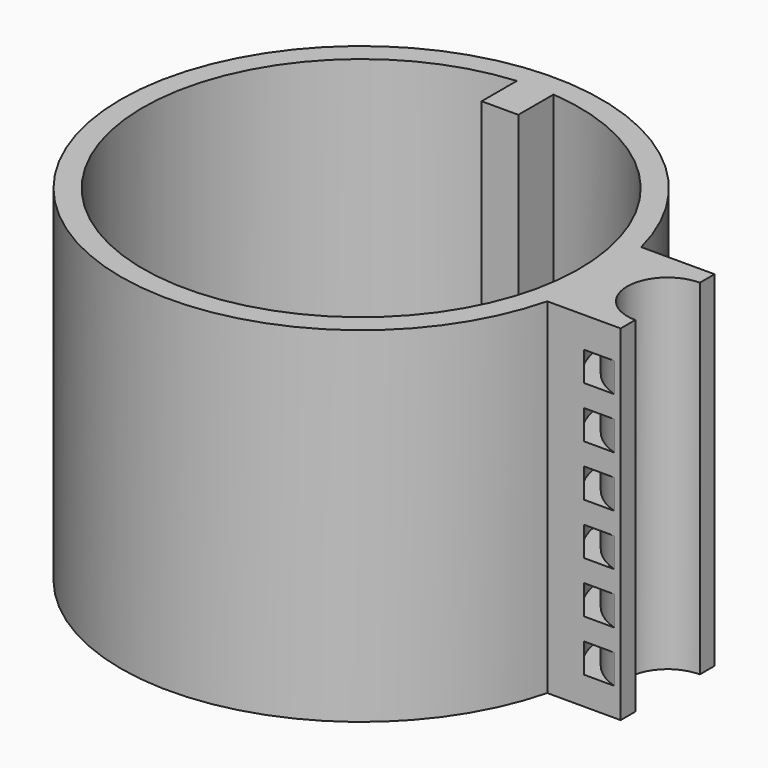
from build123d import *

# Parameters (mm, degrees)
F0_R           = 32.75
F1_DEPTH       = 40
F2_T           = -3
F3_DEPTH       = 7
F5_D           = 4.2
F5_DEPTH       = 15
F5_CBORE_D     = 7.5
F5_CBORE_DEPTH = 5
F5_TIP         = 1.2618073
F7_DEPTH       = 37
F9_DEPTH       = 47
F10_W          = 2
F10_H          = 4


with BuildPart() as f1:
    # F0 (on Top) → F1 (new body)
    with BuildSketch(Plane.XY):
        Circle(F0_R)
    extrude(amount=F1_DEPTH)

    # F2
    f2_openings = [f1.faces().sort_by_distance(p)[0] for p in [
        (0, 0, 40),
    ]]
    offset(amount=F2_T, openings=f2_openings)

    # F3 (add): a face of the model
    f3_faces = [f1.faces().sort_by_distance(p)[0] for p in [
        (0, 0, 0),
    ]]
    extrude(f3_faces, amount=F3_DEPTH)

    # F5
    with Locations(Plane(origin=(0, 0, -7), x_dir=(1, 0, 0), z_dir=(0, 0, -1))):
        with Locations((0, 0)):
            CounterBoreHole(F5_D / 2, F5_CBORE_D / 2, F5_CBORE_DEPTH, depth=F5_DEPTH)
            with Locations((0, 0, -(F5_DEPTH + F5_TIP / 2))):  # 118° drill point
                Cone(0, F5_D / 2, F5_TIP, mode=Mode.SUBTRACT)

    # F6 (on face) → F7 (join)
    with BuildSketch(Plane.XY.offset(3)):
        with BuildLine():
            ThreePointArc((2.5, 29.6447718831), (0, 29.75), (-2.5, 29.6447718831))
            Line((-2.5, 29.6447718831), (-2.5, 23.6447718831))
            Line((-2.5, 23.6447718831), (2.5, 23.6447718831))
            Line((2.5, 23.6447718831), (2.5, 29.6447718831))
        make_face()
    extrude(amount=F7_DEPTH)

    # F8 (on face) → F9 (join)
    with BuildSketch(Plane(origin=(0, 0, -7), x_dir=(1, 0, 0), z_dir=(0, 0, -1))):
        with BuildLine():
            ThreePointArc((32.75, 0), (32.5010218458, -4.0306425017), (31.7578730396, -8))
            Line((31.7578730396, -8), (41.7578730396, -8))
            Line((41.7578730396, -8), (41.7578730396, -5.5))
            ThreePointArc((41.7578730396, -5.5), (36.2578730396, 0), (41.7578730396, 5.5))
            Line((41.7578730396, 5.5), (41.7578730396, 8))
            Line((41.7578730396, 8), (31.7578730396, 8))
            ThreePointArc((31.7578730396, 8), (32.5010218458, 4.0306425017), (32.75, 0))
        make_face()
    extrude(amount=-F9_DEPTH)

    # F10 (on Front) → F11 (revolve, cut)
    with BuildSketch(Plane.XZ):
        with Locations((33.9883454144, -1.1719100263)):
            Rectangle(F10_W, F10_H)
        with Locations((33.9883454144, 5.8280899737)):
            Rectangle(F10_W, F10_H)
        with Locations((33.9883454144, 12.8280899737)):
            Rectangle(F10_W, F10_H)
        with Locations((33.9883454144, 19.8280899737)):
            Rectangle(F10_W, F10_H)
        with Locations((33.9883454144, 26.8280899737)):
            Rectangle(F10_W, F10_H)
        with Locations((33.9883454144, 33.8280899737)):
            Rectangle(F10_W, F10_H)
    revolve(axis=Axis((43.3594956994, 0, 17.8845692426), (0, 0, 1)), mode=Mode.SUBTRACT)


solid = f1.part
